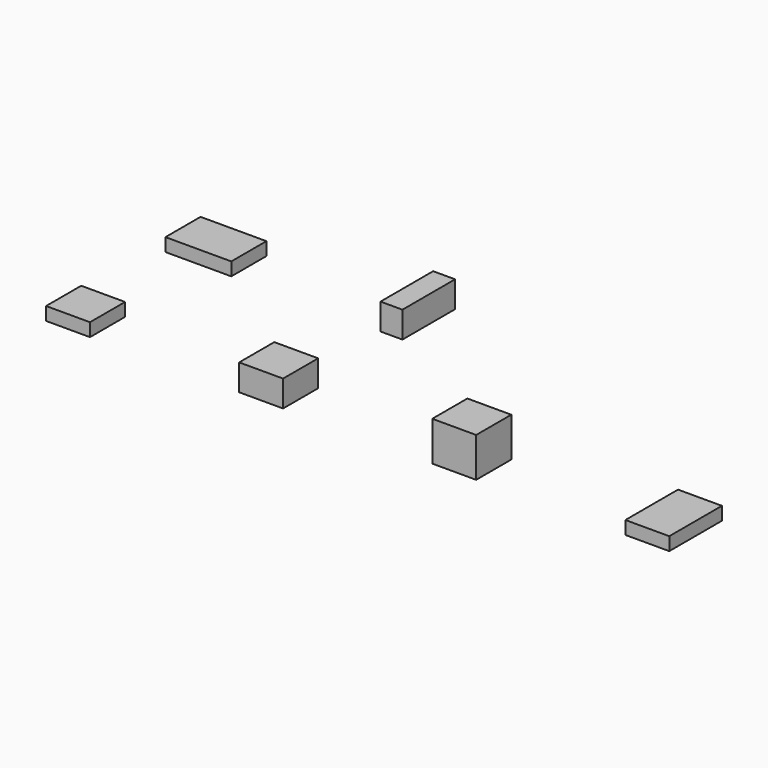
from build123d import *

# Parameters (mm, degrees)
BOX_W        = 10
BOX_H        = 10
BOX_DEPTH    = 3
BOX001_W     = 10
BOX001_H     = 10
BOX001_DEPTH = 6
BOX002_W     = 10
BOX002_H     = 10
BOX002_DEPTH = 9
BOX003_W     = 10
BOX003_H     = 15
BOX003_DEPTH = 3
BOX004_W     = 15
BOX004_H     = 10
BOX004_DEPTH = 3
BOX005_W     = 5
BOX005_H     = 15
BOX005_DEPTH = 6


with BuildPart() as cube:
    # Box → Box (new body)
    with BuildSketch(Plane.XY):
        with Locations((5, 5)):
            Rectangle(BOX_W, BOX_H)
    extrude(amount=BOX_DEPTH)


with BuildPart() as cube001:
    # Box001 → Box001 (new body)
    with BuildSketch(Plane(origin=(44, 0, 0), x_dir=(1, 0, 0), z_dir=(0, 0, 1))):
        with Locations((5, 5)):
            Rectangle(BOX001_W, BOX001_H)
    extrude(amount=BOX001_DEPTH)


with BuildPart() as cube002:
    # Box002 → Box002 (new body)
    with BuildSketch(Plane(origin=(88, 0, 0), x_dir=(1, 0, 0), z_dir=(0, 0, 1))):
        with Locations((5, 5)):
            Rectangle(BOX002_W, BOX002_H)
    extrude(amount=BOX002_DEPTH)


with BuildPart() as cube003:
    # Box003 → Box003 (new body)
    with BuildSketch(Plane(origin=(132, 0, 0), x_dir=(1, 0, 0), z_dir=(0, 0, 1))):
        with Locations((5, 7.5)):
            Rectangle(BOX003_W, BOX003_H)
    extrude(amount=BOX003_DEPTH)


with BuildPart() as cube004:
    # Box004 → Box004 (new body)
    with BuildSketch(Plane(origin=(0, 34, 0), x_dir=(1, 0, 0), z_dir=(0, 0, 1))):
        with Locations((7.5, 5)):
            Rectangle(BOX004_W, BOX004_H)
    extrude(amount=BOX004_DEPTH)


with BuildPart() as cube005:
    # Box005 → Box005 (new body)
    with BuildSketch(Plane(origin=(49, 34, 0), x_dir=(1, 0, 0), z_dir=(0, 0, 1))):
        with Locations((2.5, 7.5)):
            Rectangle(BOX005_W, BOX005_H)
    extrude(amount=BOX005_DEPTH)


solid = Compound([cube.part, cube001.part, cube002.part, cube003.part, cube004.part, cube005.part])
